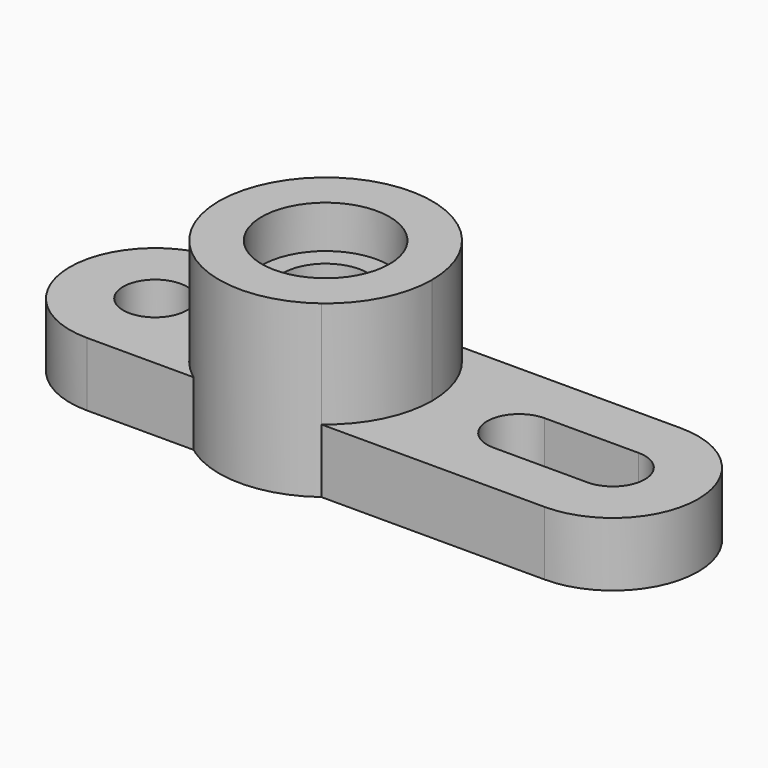
from build123d import *

# Parameters (mm, degrees)
F0_R     = 9.525
F1_DEPTH = 19.05
F0_R_2   = 19.05
F2_DEPTH = 50.8
F0_R_3   = 12.7
F3_DEPTH = 38.1


with BuildPart() as f1:
    # F0 (on Top) → F1 (new body)
    with BuildSketch(Plane.XY):
        with BuildLine():
            ThreePointArc((-19.05, -25.4), (-31.75, 0), (-19.05, 25.4))
            Line((-19.05, 25.4), (-50.8, 25.4))
            ThreePointArc((-50.8, 25.4), (-76.2, 0), (-50.8, -25.4))
            Line((-50.8, -25.4), (-19.05, -25.4))
        make_face()
        with Locations((-50.8, 0)):
            Circle(F0_R, mode=Mode.SUBTRACT)
        with BuildLine():
            ThreePointArc((19.05, 25.4), (28.398063, 14.199032), (31.75, 0))
            ThreePointArc((31.75, 0), (28.398063, -14.199032), (19.05, -25.4))
            Line((19.05, -25.4), (85.598, -25.4))
            ThreePointArc((85.598, -25.4), (110.998, 0), (85.598, 25.4))
            Line((85.598, 25.4), (19.05, 25.4))
        make_face()
        with BuildLine():
            ThreePointArc((85.598, 9.525), (95.123, 0), (85.598, -9.525))
            Line((85.598, -9.525), (57.658, -9.525))
            ThreePointArc((57.658, -9.525), (48.133, 0), (57.658, 9.525))
            Line((57.658, 9.525), (85.598, 9.525))
        make_face(mode=Mode.SUBTRACT)
    extrude(amount=F1_DEPTH)


with BuildPart() as f2:
    # F0 (on Top) → F2 (new body)
    with BuildSketch(Plane.XY):
        with BuildLine():
            ThreePointArc((19.05, -25.4), (28.398063, -14.199032), (31.75, 0))
            ThreePointArc((31.75, 0), (28.398063, 14.199032), (19.05, 25.4))
            ThreePointArc((19.05, 25.4), (0, 31.75), (-19.05, 25.4))
            ThreePointArc((-19.05, 25.4), (-31.75, 0), (-19.05, -25.4))
            ThreePointArc((-19.05, -25.4), (0, -31.75), (19.05, -25.4))
        make_face()
        Circle(F0_R_2, mode=Mode.SUBTRACT)
    extrude(amount=F2_DEPTH)

    # F0 (on Top) → F3 (join)
    with BuildSketch(Plane.XY):
        Circle(F0_R_2)
        Circle(F0_R_3, mode=Mode.SUBTRACT)
    extrude(amount=F3_DEPTH)


solid = Compound([f1.part, f2.part])
